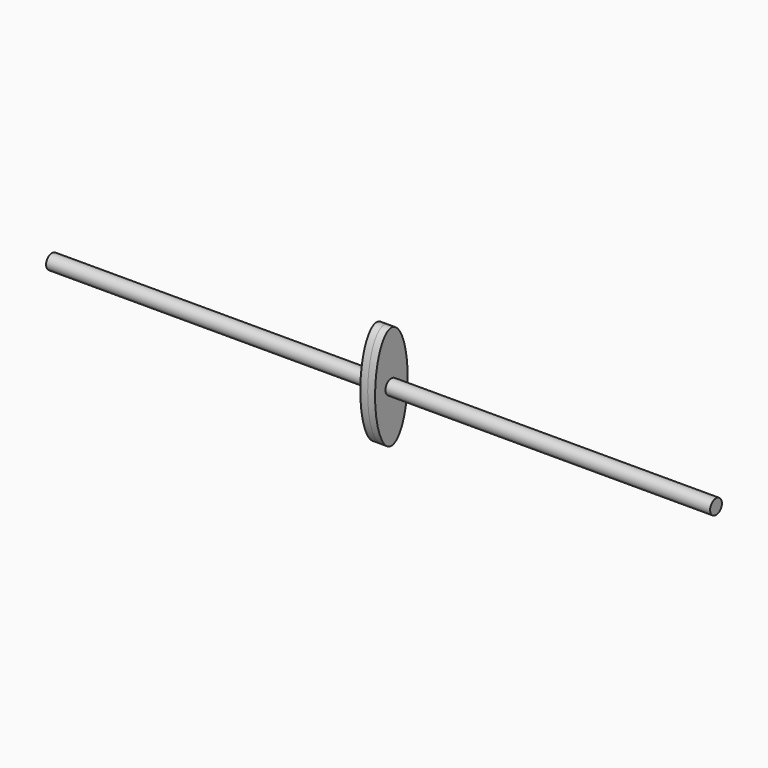
from build123d import *

# Parameters (mm, degrees)
F0_R     = 2.54
F1_DEPTH = 114.3
F3_DEPTH = 2.54


with BuildPart() as f1:
    # F0 (on Right) → F1 (new body, symmetric)
    with BuildSketch(Plane.YZ):
        Circle(F0_R)
    extrude(amount=F1_DEPTH, both=True)

    # F2 (on Right) → F3 (join, symmetric)
    with BuildSketch(Plane.YZ):
        with BuildLine():
            add(Edge.make_bspline(
                [(0, -17.921733), (12.150985, -17.921733), (6.075492, 8.960866), (0, 35.843465), (-6.075492, 8.960866), (-12.150985, -17.921733), (0, -17.921733)],
                knots=[0, 0, 0, 2.094395, 2.094395, 4.18879, 4.18879, 6.283185, 6.283185, 6.283185], degree=2, weights=[1, 0.5, 1, 0.5, 1, 0.5, 1]))
        make_face()
    extrude(amount=F3_DEPTH, both=True)


solid = f1.part
